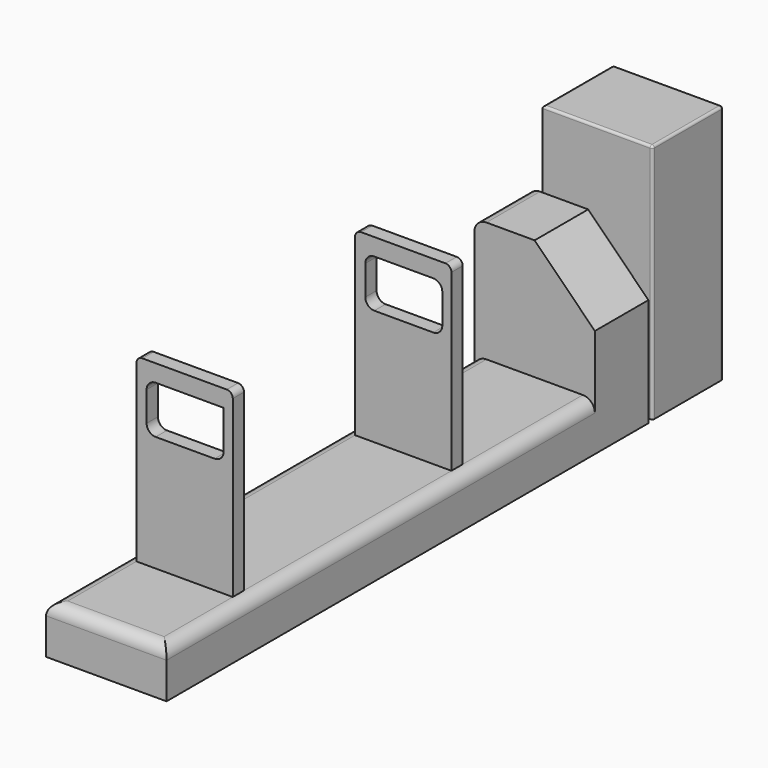
from build123d import *

# Parameters (mm, degrees)
F0_W      = 1000
F0_H      = 400
F1_DEPTH  = 5000
F2_W      = 1000
F2_H      = 555.7073950768
F3_DEPTH  = 1000
F4_R      = 100
F5_W      = 800
F5_H      = 117.048740387
F6_DEPTH  = 1500
F7_R      = 50
F8_SIZE   = 500
F9_W      = 639.2677426338
F9_H      = 396.1658477783
F10_DEPTH = 2385.9988451004
F11_R     = 75
F12_W     = 913.4129881859
F12_H     = 733.1340499222
F13_DEPTH = 2000
F14_R     = 20


with BuildPart() as f1:
    # F0 (on Front) → F1 (new body)
    with BuildSketch(Plane.XZ):
        with Locations((4.065050291, 200)):
            Rectangle(F0_W, F0_H)
    extrude(amount=F1_DEPTH)

    # F2 (on face) → F3 (join)
    with BuildSketch(Plane.XY.offset(400)):
        with Locations((4.065050291, -277.8536975384)):
            Rectangle(F2_W, F2_H)
    extrude(amount=F3_DEPTH)

    # F4
    f4_edges = [f1.edges().sort_by_distance(p)[0] for p in [
        (-495.93495, -277.853698, 1400),
        (-495.93495, -2777.853698, 400),
        (504.06505, -2777.853698, 400),
        (4.06505, -5000, 400),
    ]]
    fillet(f4_edges, radius=F4_R)

    # F5 (on face) → F6 (join)
    with BuildSketch(Plane.XY.offset(400)):
        with Locations((4.065050291, -4129.2870044708)):
            Rectangle(F5_W, F5_H)
        with Locations((4.065050291, -1860.3368997574)):
            Rectangle(F5_W, F5_H)
    extrude(amount=F6_DEPTH)

    # F7
    f7_edges = [f1.edges().sort_by_distance(p)[0] for p in [
        (404.06505, -4129.287004, 1900),
        (404.06505, -1860.3369, 1900),
        (-395.93495, -1860.3369, 1900),
        (-395.93495, -4129.287004, 1900),
    ]]
    fillet(f7_edges, radius=F7_R)

    # F8
    f8_edges = [f1.edges().sort_by_distance(p)[0] for p in [
        (504.06505, -277.853698, 1400),
    ]]
    chamfer(f8_edges, length=F8_SIZE)

    # F9 (on face) → F10 (cut, through all)
    with BuildSketch(Plane.XZ.offset(4187.8113746643)):
        with Locations((8.5670053959, 1559.6715211868)):
            Rectangle(F9_W, F9_H)
    extrude(amount=-F10_DEPTH, mode=Mode.SUBTRACT)

    # F11
    f11_edges = [f1.edges().sort_by_distance(p)[0] for p in [
        (-311.066866, -4129.287004, 1757.754445),
        (-311.066866, -1860.3369, 1757.754445),
        (-311.066866, -4129.287004, 1361.588597),
        (-311.066866, -1860.3369, 1361.588597),
        (328.200877, -1860.3369, 1361.588597),
        (328.200877, -4129.287004, 1361.588597),
        (328.200877, -1860.3369, 1757.754445),
    ]]
    fillet(f11_edges, radius=F11_R)


with BuildPart() as f13:
    # F12 (on Top) → F13 (new body)
    with BuildSketch(Plane.XY):
        with Locations((40.562748909, 417.64604114)):
            Rectangle(F12_W, F12_H)
    extrude(amount=F13_DEPTH)

    # F14
    f14_edges = [f13.edges().sort_by_distance(p)[0] for p in [
        (497.269243, 417.646041, 2000),
        (497.269243, 784.213066, 1000),
        (-416.143745, 784.213066, 1000),
        (40.562749, 784.213066, 0),
        (40.562749, 784.213066, 2000),
        (-416.143745, 417.646041, 2000),
        (40.562749, 51.079016, 2000),
        (497.269243, 51.079016, 1000),
    ]]
    fillet(f14_edges, radius=F14_R)


solid = Compound([f1.part, f13.part])
